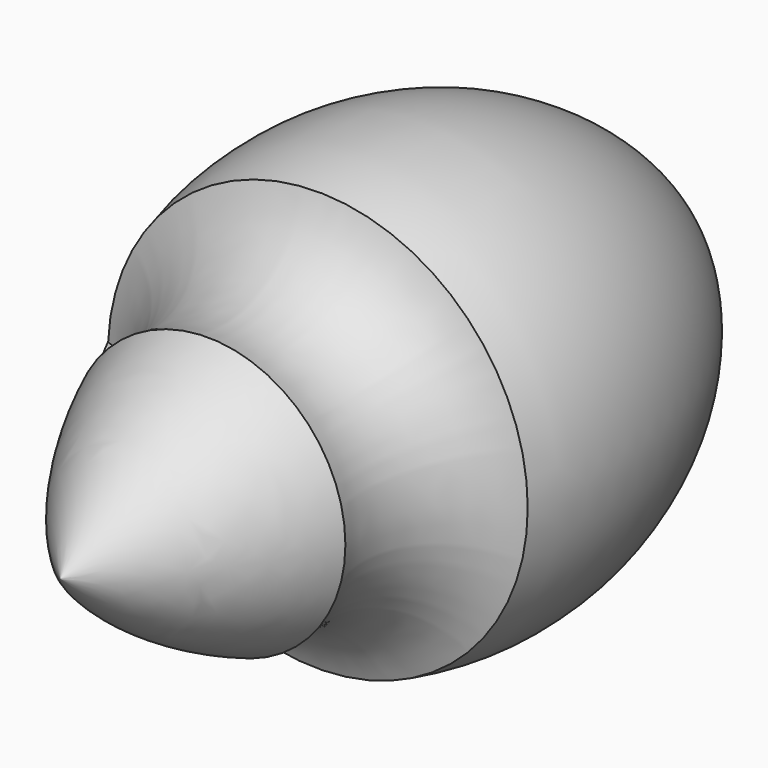
from build123d import *

# Parameters (mm, degrees)
F3_DEPTH = 25
F6_DEPTH = 1
F6_TAPER = -0.5


with BuildPart() as f1:
    # F0 (on Top) → F1 (revolve)
    with BuildSketch(Plane.XY):
        with BuildLine():
            Line((0, 20), (0, 0))
            ThreePointArc((0, 0), (8.7701665379, 9.0473750966), (15, 20))
            Line((15, 20), (0, 20))
        make_face()
        with BuildLine():
            Line((0, 35), (0, 20))
            Line((0, 20), (15, 20))
            ThreePointArc((15, 20), (15.8234787517, 29.1164619428), (22.8357519594, 35))
            Line((22.8357519594, 35), (0, 35))
        make_face()
        with BuildLine():
            Line((0, 75.0377376154), (0, 35))
            Line((0, 35), (22.8357519594, 35))
            ThreePointArc((22.8357519594, 35), (22.2612211458, 58.1066345936), (9, 77.0377376154))
            Line((9, 77.0377376154), (7, 77.0377376154))
            Line((7, 77.0377376154), (7, 75.0377376154))
            Line((7, 75.0377376154), (0, 75.0377376154))
        make_face()
    revolve(axis=Axis((0, 38.5188688077, 0), (0, 1, 0)))

    # F5 (on Top) → F6 (join, symmetric)
    with BuildSketch(Plane.XY):
        with BuildLine():
            ThreePointArc((-15, 20), (-15.8234787517, 29.1164619428), (-22.8357519594, 35))
            Line((-22.8357519594, 35), (-15, 20))
        make_face()
    extrude(amount=F6_DEPTH, both=True, taper=F6_TAPER)


with BuildPart() as f3:
    # F2 (on Top) → F3 (new body)
    with BuildSketch(Plane.XY):
        with BuildLine():
            Line((-22.8357519594, 35), (-15, 20))
            ThreePointArc((-15, 20), (-15.8234787517, 29.1164619428), (-22.8357519594, 35))
        make_face()
    extrude(amount=F3_DEPTH)


solid = f1.part
